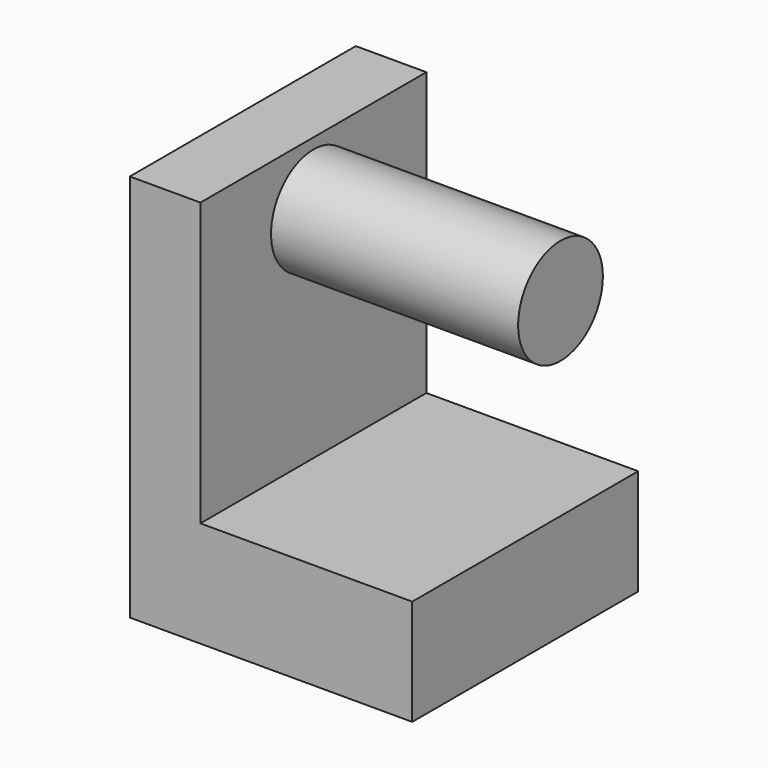
from build123d import *

# Parameters (mm, degrees)
F0_W     = 30
F0_H     = 40
F1_DEPTH = 15
F0_W_2   = 10
F2_DEPTH = 55
F3_R     = 7.5
F4_DEPTH = 35


with BuildPart() as f1:
    # F0 (on Top) → F1 (new body)
    with BuildSketch(Plane.XY):
        with Locations((5, 0)):
            Rectangle(F0_W, F0_H)
    extrude(amount=F1_DEPTH)

    # F0 (on Top) → F2 (join)
    with BuildSketch(Plane.XY):
        with Locations((-15, 0)):
            Rectangle(F0_W_2, F0_H)
    extrude(amount=F2_DEPTH)

    # F3 (on face) → F4 (join)
    with BuildSketch(Plane.YZ.offset(-10)):
        with Locations((0, 46)):
            Circle(F3_R)
    extrude(amount=F4_DEPTH)


solid = f1.part
